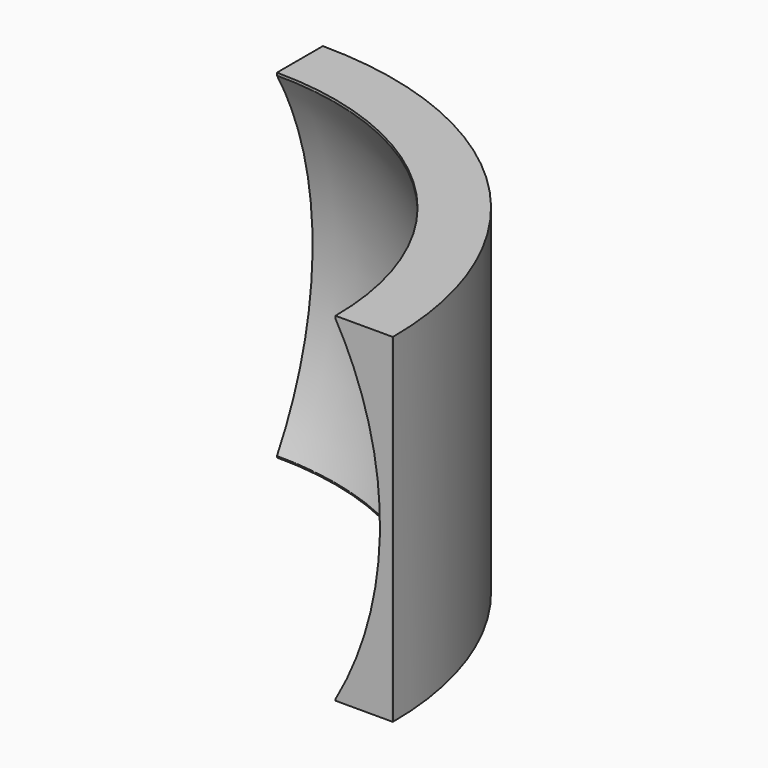
from build123d import *

# Parameters (mm, degrees)
PAD_DEPTH = 30
BOX_W     = 10
BOX_H     = 10
BOX_DEPTH = 10


with BuildPart() as part:
    # Sketch (on XY_Plane of Origin) → Pad (new body)
    with BuildSketch(Plane.XY):
        with BuildLine():
            ThreePointArc((25.9, 8e-06), (18.314063, 18.314069), (0, 25.9))
            Line((0, 25.9), (0, 30.9))
            Line((0, 30.9), (0, 30.98))
            ThreePointArc((30.98, 0), (21.906168, 21.906168), (0, 30.98))
            Line((30.9, 0), (30.98, 0))
            Line((25.9, 8e-06), (30.9, 0))
        make_face()
    extrude(amount=PAD_DEPTH)

    # Box → Box (cut)
    with BuildSketch(Plane.XY):
        with Locations((5, 5)):
            Rectangle(BOX_W, BOX_H)
    extrude(amount=BOX_DEPTH, mode=Mode.SUBTRACT)

    # Sketch001 (on XZ_Plane of Origin) → Groove (revolve, cut)
    with BuildSketch(Plane.XZ):
        with BuildLine():
            ThreePointArc((25.828939, 0), (29.840979, 14.944895), (25.828939, 29.88979))
            Line((25.828939, 29.88979), (25.828939, 0))
        make_face()
    revolve(axis=Axis((0, 0, 0), (0, 0, 1)), mode=Mode.SUBTRACT)


solid = part.part
